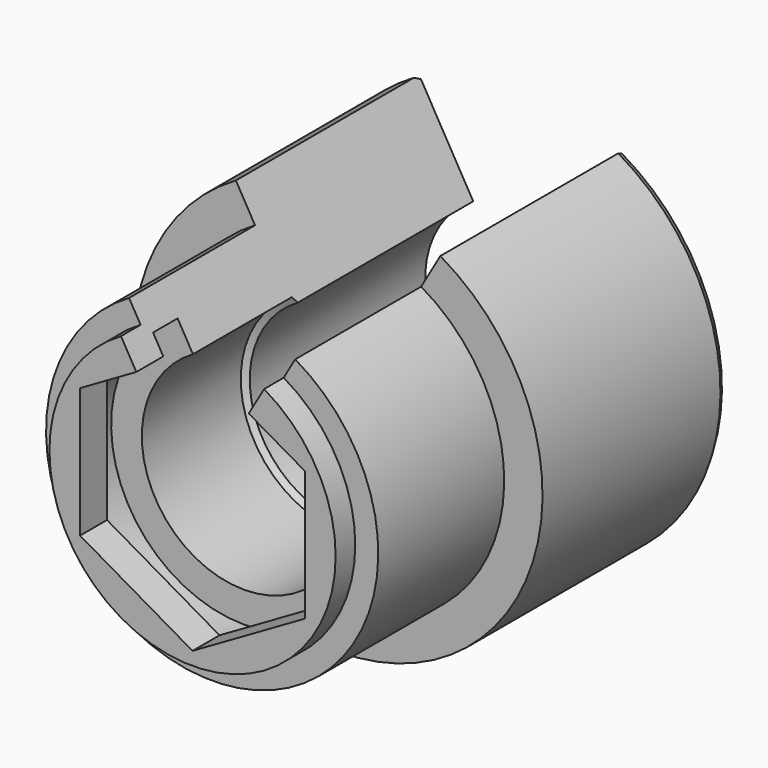
from build123d import *

# Parameters (mm, degrees)
F0_R      = 20
F1_DEPTH  = 40.2
F2_R      = 20
F2_R_2    = 16.25
F3_DEPTH  = 17.8
F5_DEPTH  = 40.201
F7_R      = 13
F8_DEPTH  = 3
F10_DEPTH = 5
F11_R     = 16.25
F11_R_2   = 14
F12_DEPTH = 2.4
F14_DEPTH = 15
F18_R     = 10
F19_DEPTH = 18.4


with BuildPart() as f1:
    # F0 (on Front) → F1 (new body)
    with BuildSketch(Plane.XZ):
        Circle(F0_R)
    extrude(amount=F1_DEPTH)

    # F2 (on face) → F3 (cut)
    with BuildSketch(Plane.XZ.offset(40.2)):
        Circle(F2_R)
        Circle(F2_R_2, mode=Mode.SUBTRACT)
    extrude(amount=-F3_DEPTH, mode=Mode.SUBTRACT)

    # F4 (on face) → F5 (cut, through all)
    with BuildSketch(Plane.XZ.offset(40.2)):
        with BuildLine():
            Line((-10, 17.3205080757), (-4.7, 8.1406387956))
            ThreePointArc((-4.7, 8.1406387956), (0, -9.4), (4.7, 8.1406387956))
            Line((4.7, 8.1406387956), (10, 17.3205080757))
            ThreePointArc((10, 17.3205080757), (0, 20), (-10, 17.3205080757))
        make_face()
    extrude(amount=-F5_DEPTH, mode=Mode.SUBTRACT)

    # F7 (on offset) → F8 (cut)
    with BuildSketch(Plane.XZ.offset(33.9)):
        Circle(F7_R)
    extrude(amount=F8_DEPTH, mode=Mode.SUBTRACT)

    # F9 (on face) → F10 (cut)
    with BuildSketch(Plane.XZ.offset(40.2)):
        Polygon((11, -6.3508529611), (11, 6.3508529611), (0, 12.7017059222), (-11, 6.3508529611), (-11, -6.3508529611), (0, -12.7017059222), align=None)
    extrude(amount=-F10_DEPTH, mode=Mode.SUBTRACT)

    # F11 (on face) → F12 (cut)
    with BuildSketch(Plane.XZ.offset(40.2)):
        Circle(F11_R)
        Circle(F11_R_2, mode=Mode.SUBTRACT)
    extrude(amount=-F12_DEPTH, mode=Mode.SUBTRACT)

    # F13 (on face) → F14 (cut)
    with BuildSketch(Plane(origin=(0, 0, 0), x_dir=(-1, 0, 0), z_dir=(0, 1, 0))):
        with BuildLine():
            Line((19.9761634199, 0.9761634199), (19, 0))
            Line((19, 0), (19.9761634199, -0.9761634199))
            ThreePointArc((19.9761634199, -0.9761634199), (20, 0), (19.9761634199, 0.9761634199))
        make_face()
    extrude(amount=-F14_DEPTH, mode=Mode.SUBTRACT)

    # F15 (on Right) → F16 (revolve, cut)
    with BuildSketch(Plane.YZ):
        Polygon((-0.639097304, -20), (0, -20), (0, -19.6310169995), align=None)
    revolve(axis=Axis((0, -40.2, 0), (0, -1, 0)), mode=Mode.SUBTRACT)

    # F18 (on face) → F19 (cut)
    with BuildSketch(Plane.XZ.offset(40.2)):
        Circle(F18_R)
    extrude(amount=-F19_DEPTH, mode=Mode.SUBTRACT)

    # F20 (on Top) → F21 (revolve, cut)
    with BuildSketch(Plane.XY):
        Polygon((-10, -21.8), (-9.4, -21.8), (-9.4, -21.4535898385), align=None)
    revolve(axis=Axis((0, -40.2, 0), (0, -1, 0)), mode=Mode.SUBTRACT)


solid = f1.part
